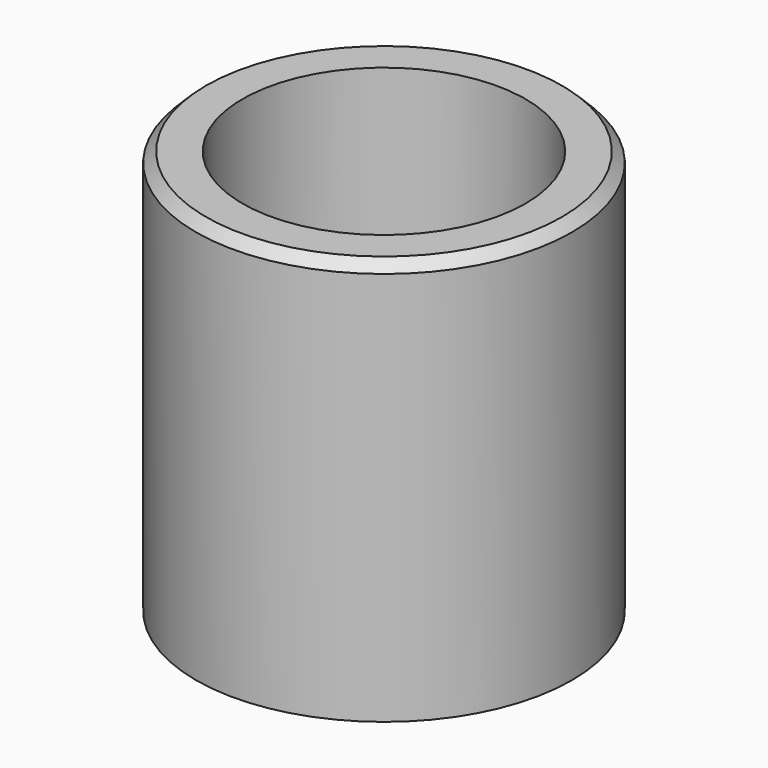
from build123d import *

# Parameters (mm, degrees)
SKETCH_R     = 9.3
SKETCH_R_2   = 7
PAD_DEPTH    = 20
CHAMFER_SIZE = 0.5


with BuildPart() as part:
    # Sketch → Pad (new body)
    with BuildSketch(Plane.XY):
        Circle(SKETCH_R)
        Circle(SKETCH_R_2, mode=Mode.SUBTRACT)
    extrude(amount=PAD_DEPTH)

    # Chamfer
    chamfer_edges = [part.edges().sort_by_distance(p)[0] for p in [
        (-9.3, 0, 20),
    ]]
    chamfer(chamfer_edges, length=CHAMFER_SIZE)


solid = part.part
